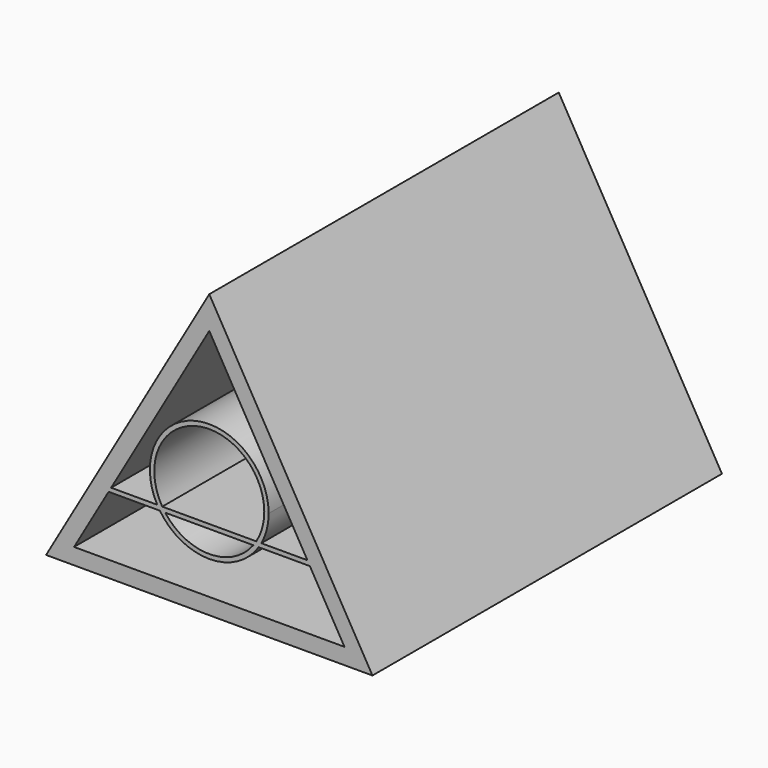
from build123d import *

# Parameters (mm, degrees)
F1_DEPTH = 25.4


with BuildPart() as f1:
    # F0 (on Front) → F1 (new body)
    with BuildSketch(Plane.XZ):
        Polygon((9.48788598, -6.3324664853), (0, 10.1010340885), (-9.48788598, -6.3324664853), align=None)
        Polygon((-6.2788794748, -1.6604552061), (-5.7053113926, -1.6604552061), (0, 8.2214339988), (5.7053113926, -1.6604552061), (6.5799402073, -1.6604552061), (6.5799402073, -1.9144552061), (5.851958361, -1.9144552061), (7.8601045534, -5.3926664405), (-7.8601045534, -5.3926664405), (-5.851958361, -1.9144552061), (-6.2788794748, -1.9144552061), align=None, mode=Mode.SUBTRACT)
        with BuildLine():
            ThreePointArc((-2.7333680587, -1.6604552061), (-0.86214412, 3.079792193), (3.1981889306, 0))
            ThreePointArc((3.1981889306, 0), (3.079792193, -0.86214412), (2.7333680587, -1.6604552061))
            Line((2.7333680587, -1.6604552061), (3.0266312826, -1.6604552061))
            ThreePointArc((3.0266312826, -1.6604552061), (3.3441076107, -0.8570605001), (3.4521889306, 0))
            ThreePointArc((3.4521889306, 0), (-0.8570605001, 3.3441076107), (-3.0266312826, -1.6604552061))
            Line((-3.0266312826, -1.6604552061), (-2.7333680587, -1.6604552061))
        make_face()
        with BuildLine():
            ThreePointArc((2.5618886977, -1.9144552061), (0, -3.1981889306), (-2.5618886977, -1.9144552061))
            Line((-2.5618886977, -1.9144552061), (-2.8727112066, -1.9144552061))
            ThreePointArc((-2.8727112066, -1.9144552061), (0, -3.4521889306), (2.8727112066, -1.9144552061))
            Line((2.8727112066, -1.9144552061), (2.5618886977, -1.9144552061))
        make_face()
        with BuildLine():
            Line((2.7333680587, -1.6604552061), (-2.7333680587, -1.6604552061))
            ThreePointArc((-2.7333680587, -1.6604552061), (-2.6506725616, -1.7895103818), (-2.5618886977, -1.9144552061))
            Line((-2.5618886977, -1.9144552061), (2.5618886977, -1.9144552061))
            ThreePointArc((2.5618886977, -1.9144552061), (2.6506725616, -1.7895103818), (2.7333680587, -1.6604552061))
        make_face()
        with BuildLine():
            ThreePointArc((-2.8727112066, -1.9144552061), (-2.9524040122, -1.7891112211), (-3.0266312826, -1.6604552061))
            Line((-3.0266312826, -1.6604552061), (-5.7053113926, -1.6604552061))
            Line((-5.7053113926, -1.6604552061), (-5.851958361, -1.9144552061))
            Line((-5.851958361, -1.9144552061), (-2.8727112066, -1.9144552061))
        make_face()
        with BuildLine():
            Line((5.7053113926, -1.6604552061), (3.0266312826, -1.6604552061))
            ThreePointArc((3.0266312826, -1.6604552061), (2.9524040122, -1.7891112211), (2.8727112066, -1.9144552061))
            Line((2.8727112066, -1.9144552061), (5.851958361, -1.9144552061))
            Line((5.851958361, -1.9144552061), (5.7053113926, -1.6604552061))
        make_face()
        Polygon((6.5799402073, -1.6604552061), (5.7053113926, -1.6604552061), (5.851958361, -1.9144552061), (6.5799402073, -1.9144552061), align=None)
        Polygon((-5.851958361, -1.9144552061), (-5.7053113926, -1.6604552061), (-6.2788794748, -1.6604552061), (-6.2788794748, -1.9144552061), align=None)
        with BuildLine():
            ThreePointArc((-2.5618886977, -1.9144552061), (-2.6506725616, -1.7895103818), (-2.7333680587, -1.6604552061))
            Line((-2.7333680587, -1.6604552061), (-3.0266312826, -1.6604552061))
            ThreePointArc((-3.0266312826, -1.6604552061), (-2.9524040122, -1.7891112211), (-2.8727112066, -1.9144552061))
            Line((-2.8727112066, -1.9144552061), (-2.5618886977, -1.9144552061))
        make_face()
        with BuildLine():
            Line((3.0266312826, -1.6604552061), (2.7333680587, -1.6604552061))
            ThreePointArc((2.7333680587, -1.6604552061), (2.6506725616, -1.7895103818), (2.5618886977, -1.9144552061))
            Line((2.5618886977, -1.9144552061), (2.8727112066, -1.9144552061))
            ThreePointArc((2.8727112066, -1.9144552061), (2.9524040122, -1.7891112211), (3.0266312826, -1.6604552061))
        make_face()
    extrude(amount=F1_DEPTH)


solid = f1.part
